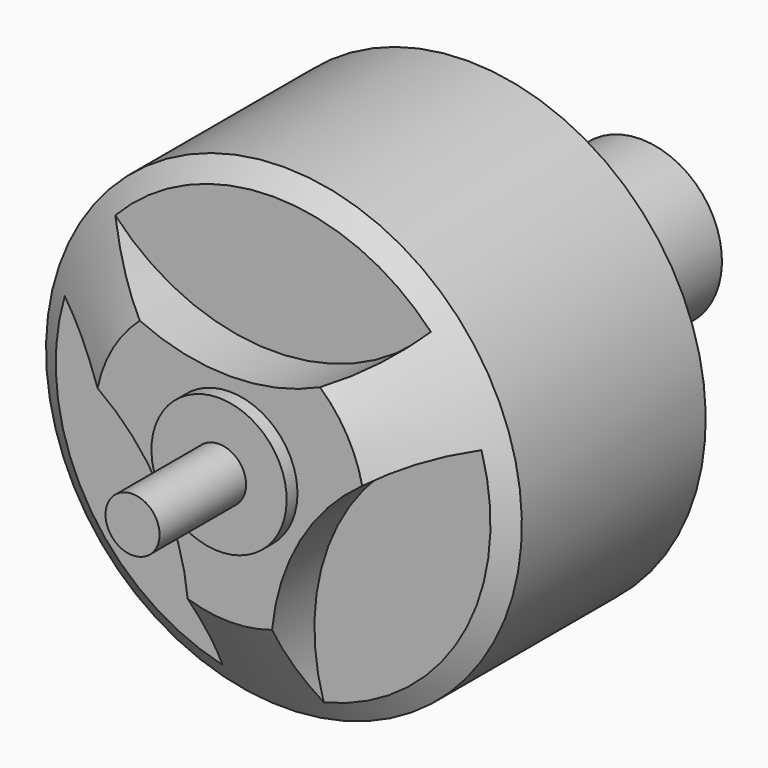
from build123d import *

# Parameters (mm, degrees)
F2_R     = 8
F3_DEPTH = 2


with BuildPart() as f1:
    # F0 (on Right) → F1 (revolve)
    with BuildSketch(Plane.YZ):
        Polygon((-23.5, 0), (0, 0), (0, 3), (-5, 3), (-5, 3.5), (-6.5, 3.5), (-8, 7), (-8, 8.8), (-16.5, 8.8), (-19, 5), (-19, 2.5), (-19.5, 2.5), (-19.5, 1), (-23.5, 1), align=None)
    revolve(axis=Axis((0, -11.75, 0), (0, 1, 0)))

    # F2 (on face) → F3 (cut)
    with BuildSketch(Plane.XZ.offset(19)):
        with Locations((0, 11)):
            Circle(F2_R)
        with Locations((-9.526279, -5.5)):
            Circle(F2_R)
        with Locations((9.526279, -5.5)):
            Circle(F2_R)
    extrude(amount=-F3_DEPTH, mode=Mode.SUBTRACT)


solid = f1.part
